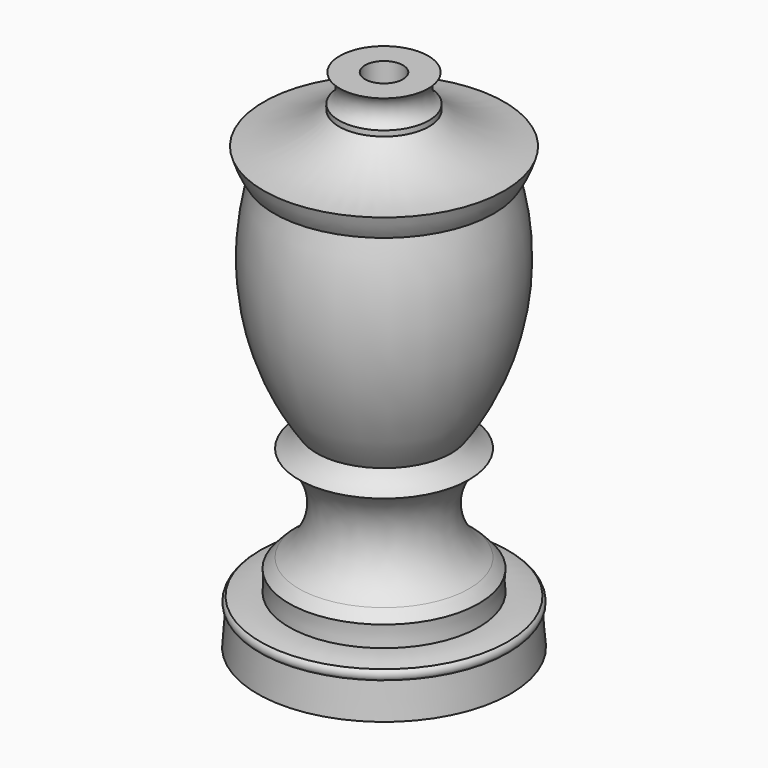
from build123d import *

# Parameters (mm, degrees)
F2_R     = 0.75
F3_DEPTH = 40.001
F2_R_2   = 1.5
F4_DEPTH = 25


with BuildPart() as f1:
    # F0 (on Front) → F1 (revolve)
    with BuildSketch(Plane.XZ):
        with BuildLine():
            Line((0, 40), (0, 0))
            Line((0, 0), (10, 0))
            Line((10, 0), (9.784359, 2.782907))
            ThreePointArc((9.784359, 2.782907), (9.980523, 3.170629), (9.784359, 3.558351))
            ThreePointArc((9.784359, 3.558351), (8.655024, 3.787056), (7.503641, 3.832038))
            ThreePointArc((7.503641, 3.832038), (7.452347, 4.653096), (7.503641, 5.474155))
            ThreePointArc((7.503641, 5.474155), (7.139045, 5.885003), (6.728197, 6.249599))
            ThreePointArc((6.728197, 6.249599), (4.742394, 10.042816), (6.728197, 13.836033))
            ThreePointArc((6.728197, 13.836033), (5.936233, 14.438854), (5.325507, 15.224738))
            ThreePointArc((5.325507, 15.224738), (8.874109, 23.76277), (8.276595, 32.989554))
            Line((8.276595, 32.989554), (8.684428, 32.989554))
            ThreePointArc((8.684428, 32.989554), (9.161736, 33.887218), (9.512296, 34.841539))
            ThreePointArc((9.512296, 34.841539), (6.321558, 35.604522), (3.559791, 37.375282))
            ThreePointArc((3.559791, 37.375282), (3.566159, 37.58967), (3.559791, 37.804058))
            ThreePointArc((3.559791, 37.804058), (2.988669, 38.88644), (3.496324, 40))
            Line((3.496324, 40), (0, 40))
        make_face()
    revolve(axis=Axis((0, 0, 20), (0, 0, -1)))

    # F2 (on face) → F3 (cut, through all)
    with BuildSketch(Plane.XY.offset(40)):
        Circle(F2_R)
    extrude(amount=-F3_DEPTH, mode=Mode.SUBTRACT)

    # F2 (on face) → F4 (cut)
    with BuildSketch(Plane.XY.offset(40)):
        Circle(F2_R_2)
        Circle(F2_R, mode=Mode.SUBTRACT)
    extrude(amount=-F4_DEPTH, mode=Mode.SUBTRACT)


solid = f1.part
